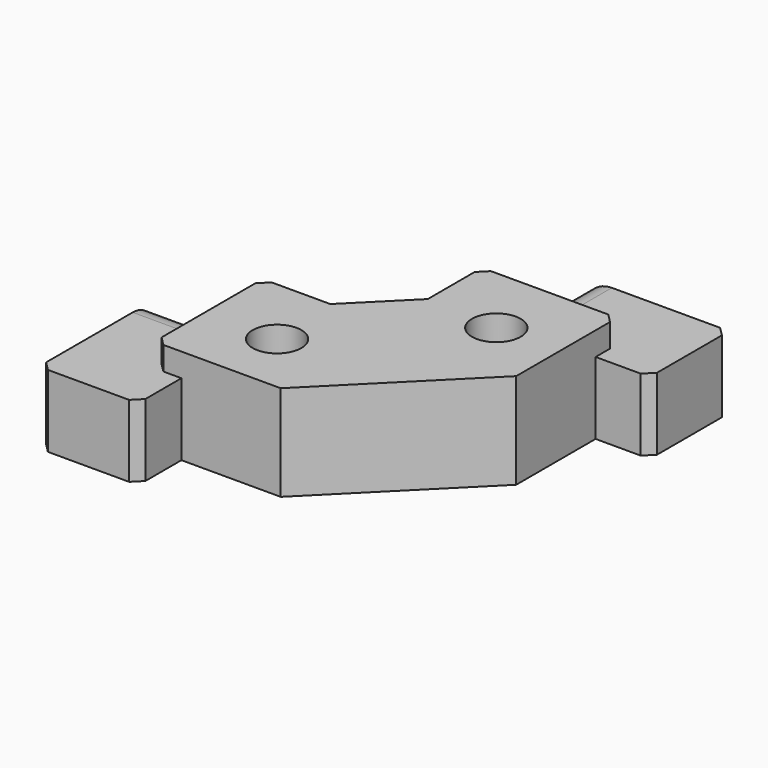
from build123d import *

# Parameters (mm, degrees)
F1_DEPTH = 1.3
F3_DEPTH = 4
F4_SIZE  = 0.5
F5_SIZE  = 3
F6_R     = 1.5
F8_D     = 2.7


with BuildPart() as f1:
    # F0 (on Top) → F1 (new body)
    with BuildSketch(Plane.XY):
        Polygon((-7.25, -7), (-0.25, -7), (7, 0.25), (7, 7.25), (-0.5, 7.25), (-0.5, 0.5), (-7.25, 0.5), align=None)
    extrude(amount=F1_DEPTH)

    # F2 (on face) → F3 (join)
    with BuildSketch(Plane(origin=(0, 0, 0), x_dir=(1, 0, 0), z_dir=(0, 0, -1))):
        Polygon((7, -5.75), (7, -0.25), (-0.25, 7), (-5.75, 7), (-5.75, 10), (-11.25, 10), (-11.25, 2), (-7.25, 2), (-7.25, -0.5), (-0.5, -0.5), (-0.5, -7.25), (2, -7.25), (2, -11.25), (10, -11.25), (10, -5.75), align=None)
    extrude(amount=F3_DEPTH)

    # F4
    f4_edges = [f1.edges().sort_by_distance(p)[0] for p in [
        (-5.75, -10, -2),
        (-11.25, -10, -2),
        (-7.25, -7, 0.65),
        (-11.25, -2, -2),
        (-7.25, 0.5, -1.35),
        (-0.5, 7.25, -1.35),
        (2, 11.25, -2),
        (7, 7.25, 0.65),
        (10, 11.25, -2),
        (10, 5.75, -2),
    ]]
    chamfer(f4_edges, length=F4_SIZE)

    # F5
    f5_edges = [f1.edges().sort_by_distance(p)[0] for p in [
        (-0.5, 0.5, -1.35),
    ]]
    chamfer(f5_edges, length=F5_SIZE)

    # F6
    f6_edges = [f1.edges().sort_by_distance(p)[0] for p in [
        (2, 9, 0),
        (-9, -2, 0),
    ]]
    fillet(f6_edges, radius=F6_R)

    # F8 (through all)
    with Locations(Plane.XY.offset(1.3)):
        with Locations((3.5, 3.25), (-3.25, -3.5)):
            Hole(F8_D / 2)


solid = f1.part
